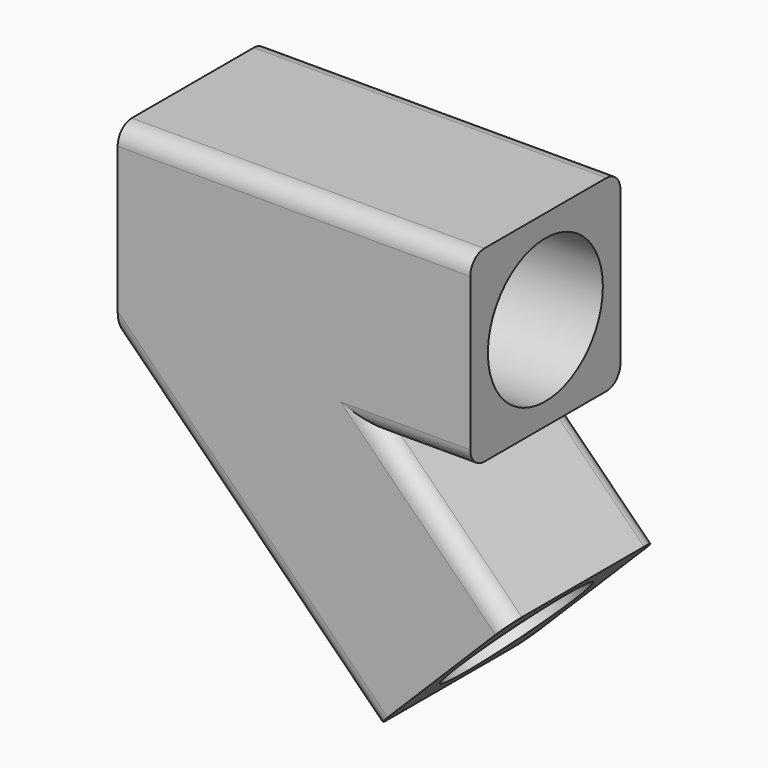
from build123d import *

# Parameters (mm, degrees)
F1_DEPTH = 21.3
F3_R     = 8.15
F4_DEPTH = 35
F2_R     = 8.15
F5_DEPTH = 35
F6_R     = 2


with BuildPart() as f1:
    # F0 (on Front) → F1 (new body)
    with BuildSketch(Plane.XZ):
        Polygon((40, -21.3), (40, -18.8), (24.0872149726, -18.8), (42.4971175493, -37.2099025767), (44.2648845023, -35.4421356237), (30.1227488785, -21.3), align=None)
        Polygon((40, -18.8), (40, -2.5), (2.5, -2.5), (2.5, -20.2644660941), (30.971277016, -48.73574311), (42.4971175493, -37.2099025767), (24.0872149726, -18.8), align=None)
        Polygon((40, 0), (0, 0), (0, -21.3), (29.203510063, -50.503510063), (30.971277016, -48.73574311), (2.5, -20.2644660941), (2.5, -2.5), (40, -2.5), align=None)
    extrude(amount=F1_DEPTH)

    # F3 (on face) → F4 (cut)
    with BuildSketch(Plane(origin=(39.853510063, 0, -39.853510063), x_dir=(0.7071067812, 0, 0.7071067812), z_dir=(0.7071067812, 0, -0.7071067812))):
        with Locations((-4.4113744393, 10.65)):
            Circle(F3_R)
    extrude(amount=-F4_DEPTH, mode=Mode.SUBTRACT)

    # F2 (on face) → F5 (cut)
    with BuildSketch(Plane.YZ.offset(40)):
        with Locations((-10.65, -10.65)):
            Circle(F2_R)
    extrude(amount=-F5_DEPTH, mode=Mode.SUBTRACT)

    # F6
    f6_edges = [f1.edges().sort_by_distance(p)[0] for p in [
        (20, 0, 0),
        (20, -21.3, 0),
        (14.601755, -21.3, -35.901755),
        (14.601755, 0, -35.901755),
        (37.193817, -21.3, -28.371068),
        (37.193817, 0, -28.371068),
        (35.061374, 0, -21.3),
        (35.061374, -21.3, -21.3),
    ]]
    fillet(f6_edges, radius=F6_R)


solid = f1.part
